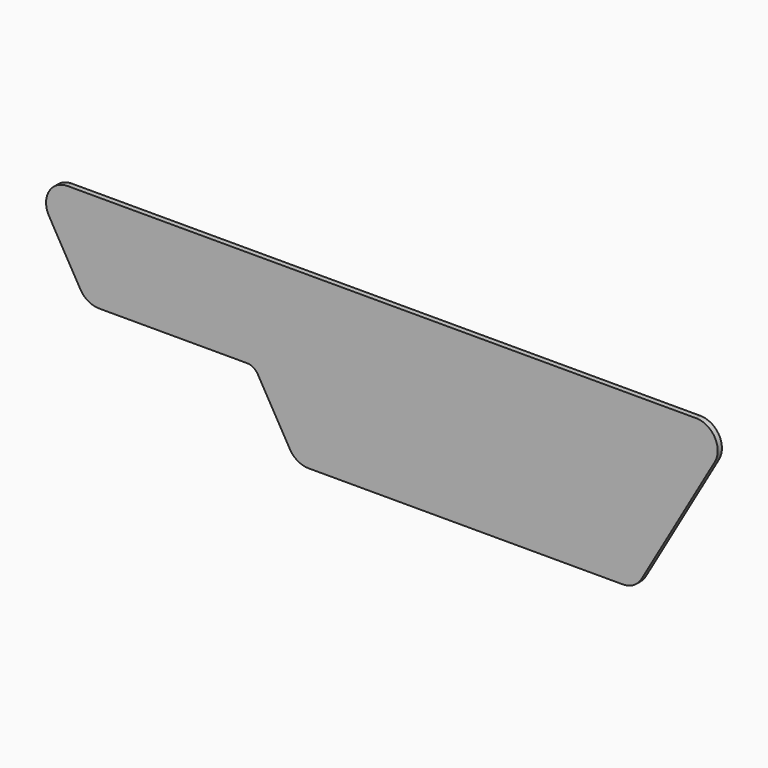
from build123d import *

# Parameters (mm, degrees)
F0_R      = 9.4
F1_DEPTH  = 3
F2_R      = 20
F4_DEPTH  = 2
F6_DEPTH  = 2
F8_DEPTH  = 2
F10_DEPTH = 2
F12_DEPTH = 2
F15_DEPTH = 5


with BuildPart() as f1:
    # F0 (on Front) → F1 (new body)
    with BuildSketch(Plane.XZ):
        with BuildLine():
            ThreePointArc((9.679841755, -7.7498815216), (16.4685048716, -10.4231120583), (19.3, -17.1473029949))
            ThreePointArc((19.3, -17.1473029949), (7.3609322648, -26.1978905469), (1.8716733966, -12.2579296252))
            ThreePointArc((1.8716733966, -12.2579296252), (-5.3694259066, -11.1771760939), (-10.7387150069, -6.2))
            Line((-10.7387150069, -6.2), (18.9612849931, -57.6419089848))
            ThreePointArc((18.9612849931, -57.6419089848), (17.3355686068, -50.5033801767), (20.020158245, -43.6920274632))
            ThreePointArc((20.020158245, -43.6920274632), (13.0758090634, -27.7261011183), (29.2, -34.2946059899))
            ThreePointArc((29.2, -34.2946059899), (28.850587552, -36.833673725), (27.8283266034, -39.1839793596))
            ThreePointArc((27.8283266034, -39.1839793596), (29.7, -39.0419089848), (31.5716733966, -39.1839793596))
            ThreePointArc((31.5716733966, -39.1839793596), (37.0609322648, -25.2440184379), (49, -34.2946059899))
            ThreePointArc((49, -34.2946059899), (46.1685048716, -41.0187969265), (39.379841755, -43.6920274632))
            ThreePointArc((39.379841755, -43.6920274632), (40.4387150069, -45.2419089848), (41.2515151515, -46.9338608812))
            ThreePointArc((41.2515151515, -46.9338608812), (51.8263966154, -42.334336378), (58.9, -51.4419089848))
            ThreePointArc((58.9, -51.4419089848), (51.8263966154, -60.5494815916), (41.2515151515, -55.9499570884))
            ThreePointArc((41.2515151515, -55.9499570884), (36.6950054866, -61.6805562706), (29.7, -63.8419089848))
            Line((29.7, -63.8419089848), (168.3, -63.8419089848))
            ThreePointArc((168.3, -63.8419089848), (161.3049945134, -61.6805562706), (156.7484848485, -55.9499570884))
            ThreePointArc((156.7484848485, -55.9499570884), (139.1, -51.4419089848), (156.7484848485, -46.9338608812))
            ThreePointArc((156.7484848485, -46.9338608812), (157.5612849931, -45.2419089848), (158.620158245, -43.6920274632))
            ThreePointArc((158.620158245, -43.6920274632), (151.6758090634, -27.7261011183), (167.8, -34.2946059899))
            ThreePointArc((167.8, -34.2946059899), (167.450587552, -36.833673725), (166.4283266034, -39.1839793596))
            ThreePointArc((166.4283266034, -39.1839793596), (168.3, -39.0419089848), (170.1716733966, -39.1839793596))
            ThreePointArc((170.1716733966, -39.1839793596), (175.6609322648, -25.2440184379), (187.6, -34.2946059899))
            ThreePointArc((187.6, -34.2946059899), (184.7685048716, -41.0187969265), (177.979841755, -43.6920274632))
            ThreePointArc((177.979841755, -43.6920274632), (179.0387150069, -45.2419089848), (179.8515151515, -46.9338608812))
            ThreePointArc((179.8515151515, -46.9338608812), (190.4263966154, -42.334336378), (197.5, -51.4419089848))
            ThreePointArc((197.5, -51.4419089848), (197.150587552, -53.98097672), (196.1283266034, -56.3312823545))
            ThreePointArc((196.1283266034, -56.3312823545), (198, -56.1892119797), (199.8716733966, -56.3312823545))
            ThreePointArc((199.8716733966, -56.3312823545), (205.3609322648, -42.3913214328), (217.3, -51.4419089848))
            ThreePointArc((217.3, -51.4419089848), (214.4685048716, -58.1660999214), (207.679841755, -60.8393304581))
            ThreePointArc((207.679841755, -60.8393304581), (208.7387150069, -62.3892119797), (209.5515151515, -64.0811638761))
            ThreePointArc((209.5515151515, -64.0811638761), (220.1263966154, -59.4816393729), (227.2, -68.5892119797))
            ThreePointArc((227.2, -68.5892119797), (220.1263966154, -77.6967845865), (209.5515151515, -73.0972600833))
            ThreePointArc((209.5515151515, -73.0972600833), (208.7387150069, -74.7892119797), (207.679841755, -76.3390935013))
            ThreePointArc((207.679841755, -76.3390935013), (214.4685048716, -79.0123240381), (217.3, -85.7365149747))
            ThreePointArc((217.3, -85.7365149747), (205.3609322648, -94.7871025266), (199.8716733966, -80.8471416049))
            ThreePointArc((199.8716733966, -80.8471416049), (192.6305740934, -79.7663880736), (187.2612849931, -74.7892119797))
            Line((187.2612849931, -74.7892119797), (216.9612849931, -126.2311209645))
            ThreePointArc((216.9612849931, -126.2311209645), (215.3355686068, -119.0925921564), (218.020158245, -112.2812394429))
            ThreePointArc((218.020158245, -112.2812394429), (211.0758090634, -96.315313098), (227.2, -102.8838179696))
            ThreePointArc((227.2, -102.8838179696), (226.850587552, -105.4228857048), (225.8283266034, -107.7731913393))
            ThreePointArc((225.8283266034, -107.7731913393), (227.7, -107.6311209645), (229.5716733966, -107.7731913393))
            ThreePointArc((229.5716733966, -107.7731913393), (235.0609322648, -93.8332304176), (247, -102.8838179696))
            ThreePointArc((247, -102.8838179696), (244.1685048716, -109.6080089062), (237.379841755, -112.2812394429))
            ThreePointArc((237.379841755, -112.2812394429), (238.4387150069, -113.8311209645), (239.2515151515, -115.5230728609))
            ThreePointArc((239.2515151515, -115.5230728609), (249.8263966154, -110.9235483577), (256.9, -120.0311209645))
            ThreePointArc((256.9, -120.0311209645), (249.8263966154, -129.1386935713), (239.2515151515, -124.5391690681))
            ThreePointArc((239.2515151515, -124.5391690681), (234.6950054866, -130.2697682503), (227.7, -132.4311209645))
            Line((227.7, -132.4311209645), (524.7, -132.4311209645))
            ThreePointArc((524.7, -132.4311209645), (517.7049945134, -130.2697682503), (513.1484848485, -124.5391690681))
            ThreePointArc((513.1484848485, -124.5391690681), (495.5, -120.0311209645), (513.1484848485, -115.5230728609))
            ThreePointArc((513.1484848485, -115.5230728609), (513.9612849931, -113.8311209645), (515.020158245, -112.2812394429))
            ThreePointArc((515.020158245, -112.2812394429), (508.0758090634, -96.315313098), (524.2, -102.8838179696))
            ThreePointArc((524.2, -102.8838179696), (523.850587552, -105.4228857048), (522.8283266034, -107.7731913393))
            ThreePointArc((522.8283266034, -107.7731913393), (530.0694259066, -108.8539448706), (535.4387150069, -113.8311209645))
            Line((535.4387150069, -113.8311209645), (466.1387150069, 6.2))
            ThreePointArc((466.1387150069, 6.2), (467.377480246, 3.2093561593), (467.8, 0))
            ThreePointArc((467.8, 0), (467.1002144801, -4.1066995409), (465.079841755, -7.7498815216))
            ThreePointArc((465.079841755, -7.7498815216), (471.8685048716, -10.4231120583), (474.7, -17.1473029949))
            ThreePointArc((474.7, -17.1473029949), (462.7609322648, -26.1978905469), (457.2716733966, -12.2579296252))
            ThreePointArc((457.2716733966, -12.2579296252), (455.4, -12.4), (453.5283266034, -12.2579296252))
            ThreePointArc((453.5283266034, -12.2579296252), (454.550587552, -14.6082352597), (454.9, -17.1473029949))
            ThreePointArc((454.9, -17.1473029949), (438.7758090634, -23.7158078665), (445.720158245, -7.7498815216))
            ThreePointArc((445.720158245, -7.7498815216), (444.6612849931, -6.2), (443.8484848485, -4.5080481036))
            ThreePointArc((443.8484848485, -4.5080481036), (426.2, 0), (443.8484848485, 4.5080481036))
            ThreePointArc((443.8484848485, 4.5080481036), (448.4049945134, 10.2386472858), (455.4, 12.4))
            Line((455.4, 12.4), (0, 12.4))
            ThreePointArc((0, 12.4), (6.9950054866, 10.2386472858), (11.5515151515, 4.5080481036))
            ThreePointArc((11.5515151515, 4.5080481036), (22.1263966154, 9.1075726068), (29.2, 0))
            ThreePointArc((29.2, 0), (22.1263966154, -9.1075726068), (11.5515151515, -4.5080481036))
            ThreePointArc((11.5515151515, -4.5080481036), (10.7387150069, -6.2), (9.679841755, -7.7498815216))
        make_face()
        with Locations((257.4, -102.8838179696)):
            Circle(F0_R, mode=Mode.SUBTRACT)
        with Locations((227.7, -85.7365149747)):
            Circle(F0_R, mode=Mode.SUBTRACT)
        with Locations((247.5, -85.7365149747)):
            Circle(F0_R, mode=Mode.SUBTRACT)
        with Locations((237.6, -68.5892119797)):
            Circle(F0_R, mode=Mode.SUBTRACT)
        with Locations((257.4, -68.5892119797)):
            Circle(F0_R, mode=Mode.SUBTRACT)
        with Locations((267.3, -120.0311209645)):
            Circle(F0_R, mode=Mode.SUBTRACT)
        with Locations((287.1, -120.0311209645)):
            Circle(F0_R, mode=Mode.SUBTRACT)
        with Locations((306.9, -120.0311209645)):
            Circle(F0_R, mode=Mode.SUBTRACT)
        with Locations((326.7, -120.0311209645)):
            Circle(F0_R, mode=Mode.SUBTRACT)
        with Locations((346.5, -120.0311209645)):
            Circle(F0_R, mode=Mode.SUBTRACT)
        with Locations((366.3, -120.0311209645)):
            Circle(F0_R, mode=Mode.SUBTRACT)
        with Locations((386.1, -120.0311209645)):
            Circle(F0_R, mode=Mode.SUBTRACT)
        with Locations((277.2, -102.8838179696)):
            Circle(F0_R, mode=Mode.SUBTRACT)
        with Locations((297, -102.8838179696)):
            Circle(F0_R, mode=Mode.SUBTRACT)
        with Locations((316.8, -102.8838179696)):
            Circle(F0_R, mode=Mode.SUBTRACT)
        with Locations((336.6, -102.8838179696)):
            Circle(F0_R, mode=Mode.SUBTRACT)
        with Locations((356.4, -102.8838179696)):
            Circle(F0_R, mode=Mode.SUBTRACT)
        with Locations((376.2, -102.8838179696)):
            Circle(F0_R, mode=Mode.SUBTRACT)
        with Locations((396, -102.8838179696)):
            Circle(F0_R, mode=Mode.SUBTRACT)
        with Locations((405.9, -120.0311209645)):
            Circle(F0_R, mode=Mode.SUBTRACT)
        with Locations((425.7, -120.0311209645)):
            Circle(F0_R, mode=Mode.SUBTRACT)
        with Locations((445.5, -120.0311209645)):
            Circle(F0_R, mode=Mode.SUBTRACT)
        with Locations((465.3, -120.0311209645)):
            Circle(F0_R, mode=Mode.SUBTRACT)
        with Locations((485.1, -120.0311209645)):
            Circle(F0_R, mode=Mode.SUBTRACT)
        with Locations((415.8, -102.8838179696)):
            Circle(F0_R, mode=Mode.SUBTRACT)
        with Locations((435.6, -102.8838179696)):
            Circle(F0_R, mode=Mode.SUBTRACT)
        with Locations((455.4, -102.8838179696)):
            Circle(F0_R, mode=Mode.SUBTRACT)
        with Locations((475.2, -102.8838179696)):
            Circle(F0_R, mode=Mode.SUBTRACT)
        with Locations((495, -102.8838179696)):
            Circle(F0_R, mode=Mode.SUBTRACT)
        with Locations((267.3, -85.7365149747)):
            Circle(F0_R, mode=Mode.SUBTRACT)
        with Locations((287.1, -85.7365149747)):
            Circle(F0_R, mode=Mode.SUBTRACT)
        with Locations((306.9, -85.7365149747)):
            Circle(F0_R, mode=Mode.SUBTRACT)
        with Locations((326.7, -85.7365149747)):
            Circle(F0_R, mode=Mode.SUBTRACT)
        with Locations((346.5, -85.7365149747)):
            Circle(F0_R, mode=Mode.SUBTRACT)
        with Locations((366.3, -85.7365149747)):
            Circle(F0_R, mode=Mode.SUBTRACT)
        with Locations((386.1, -85.7365149747)):
            Circle(F0_R, mode=Mode.SUBTRACT)
        with Locations((277.2, -68.5892119797)):
            Circle(F0_R, mode=Mode.SUBTRACT)
        with Locations((297, -68.5892119797)):
            Circle(F0_R, mode=Mode.SUBTRACT)
        with Locations((316.8, -68.5892119797)):
            Circle(F0_R, mode=Mode.SUBTRACT)
        with Locations((336.6, -68.5892119797)):
            Circle(F0_R, mode=Mode.SUBTRACT)
        with Locations((356.4, -68.5892119797)):
            Circle(F0_R, mode=Mode.SUBTRACT)
        with Locations((376.2, -68.5892119797)):
            Circle(F0_R, mode=Mode.SUBTRACT)
        with Locations((396, -68.5892119797)):
            Circle(F0_R, mode=Mode.SUBTRACT)
        with Locations((405.9, -85.7365149747)):
            Circle(F0_R, mode=Mode.SUBTRACT)
        with Locations((425.7, -85.7365149747)):
            Circle(F0_R, mode=Mode.SUBTRACT)
        with Locations((445.5, -85.7365149747)):
            Circle(F0_R, mode=Mode.SUBTRACT)
        with Locations((465.3, -85.7365149747)):
            Circle(F0_R, mode=Mode.SUBTRACT)
        with Locations((485.1, -85.7365149747)):
            Circle(F0_R, mode=Mode.SUBTRACT)
        with Locations((504.9, -85.7365149747)):
            Circle(F0_R, mode=Mode.SUBTRACT)
        with Locations((415.8, -68.5892119797)):
            Circle(F0_R, mode=Mode.SUBTRACT)
        with Locations((435.6, -68.5892119797)):
            Circle(F0_R, mode=Mode.SUBTRACT)
        with Locations((455.4, -68.5892119797)):
            Circle(F0_R, mode=Mode.SUBTRACT)
        with Locations((475.2, -68.5892119797)):
            Circle(F0_R, mode=Mode.SUBTRACT)
        with Locations((495, -68.5892119797)):
            Circle(F0_R, mode=Mode.SUBTRACT)
        with Locations((69.3, -51.4419089848)):
            Circle(F0_R, mode=Mode.SUBTRACT)
        with Locations((89.1, -51.4419089848)):
            Circle(F0_R, mode=Mode.SUBTRACT)
        with Locations((108.9, -51.4419089848)):
            Circle(F0_R, mode=Mode.SUBTRACT)
        with Locations((59.4, -34.2946059899)):
            Circle(F0_R, mode=Mode.SUBTRACT)
        with Locations((79.2, -34.2946059899)):
            Circle(F0_R, mode=Mode.SUBTRACT)
        with Locations((99, -34.2946059899)):
            Circle(F0_R, mode=Mode.SUBTRACT)
        with Locations((118.8, -34.2946059899)):
            Circle(F0_R, mode=Mode.SUBTRACT)
        with Locations((128.7, -51.4419089848)):
            Circle(F0_R, mode=Mode.SUBTRACT)
        with Locations((227.7, -51.4419089848)):
            Circle(F0_R, mode=Mode.SUBTRACT)
        with Locations((247.5, -51.4419089848)):
            Circle(F0_R, mode=Mode.SUBTRACT)
        with Locations((138.6, -34.2946059899)):
            Circle(F0_R, mode=Mode.SUBTRACT)
        with Locations((198, -34.2946059899)):
            Circle(F0_R, mode=Mode.SUBTRACT)
        with Locations((217.8, -34.2946059899)):
            Circle(F0_R, mode=Mode.SUBTRACT)
        with Locations((237.6, -34.2946059899)):
            Circle(F0_R, mode=Mode.SUBTRACT)
        with Locations((257.4, -34.2946059899)):
            Circle(F0_R, mode=Mode.SUBTRACT)
        with Locations((29.7, -17.1473029949)):
            Circle(F0_R, mode=Mode.SUBTRACT)
        with Locations((49.5, -17.1473029949)):
            Circle(F0_R, mode=Mode.SUBTRACT)
        with Locations((69.3, -17.1473029949)):
            Circle(F0_R, mode=Mode.SUBTRACT)
        with Locations((89.1, -17.1473029949)):
            Circle(F0_R, mode=Mode.SUBTRACT)
        with Locations((108.9, -17.1473029949)):
            Circle(F0_R, mode=Mode.SUBTRACT)
        with Locations((39.6, 0)):
            Circle(F0_R, mode=Mode.SUBTRACT)
        with Locations((59.4, 0)):
            Circle(F0_R, mode=Mode.SUBTRACT)
        with Locations((79.2, 0)):
            Circle(F0_R, mode=Mode.SUBTRACT)
        with Locations((99, 0)):
            Circle(F0_R, mode=Mode.SUBTRACT)
        with Locations((118.8, 0)):
            Circle(F0_R, mode=Mode.SUBTRACT)
        with Locations((128.7, -17.1473029949)):
            Circle(F0_R, mode=Mode.SUBTRACT)
        with Locations((148.5, -17.1473029949)):
            Circle(F0_R, mode=Mode.SUBTRACT)
        with Locations((168.3, -17.1473029949)):
            Circle(F0_R, mode=Mode.SUBTRACT)
        with Locations((188.1, -17.1473029949)):
            Circle(F0_R, mode=Mode.SUBTRACT)
        with Locations((207.9, -17.1473029949)):
            Circle(F0_R, mode=Mode.SUBTRACT)
        with Locations((227.7, -17.1473029949)):
            Circle(F0_R, mode=Mode.SUBTRACT)
        with Locations((247.5, -17.1473029949)):
            Circle(F0_R, mode=Mode.SUBTRACT)
        with Locations((138.6, 0)):
            Circle(F0_R, mode=Mode.SUBTRACT)
        with Locations((158.4, 0)):
            Circle(F0_R, mode=Mode.SUBTRACT)
        with Locations((178.2, 0)):
            Circle(F0_R, mode=Mode.SUBTRACT)
        with Locations((198, 0)):
            Circle(F0_R, mode=Mode.SUBTRACT)
        with Locations((217.8, 0)):
            Circle(F0_R, mode=Mode.SUBTRACT)
        with Locations((237.6, 0)):
            Circle(F0_R, mode=Mode.SUBTRACT)
        with Locations((257.4, 0)):
            Circle(F0_R, mode=Mode.SUBTRACT)
        with Locations((267.3, -51.4419089848)):
            Circle(F0_R, mode=Mode.SUBTRACT)
        with Locations((287.1, -51.4419089848)):
            Circle(F0_R, mode=Mode.SUBTRACT)
        with Locations((306.9, -51.4419089848)):
            Circle(F0_R, mode=Mode.SUBTRACT)
        with Locations((326.7, -51.4419089848)):
            Circle(F0_R, mode=Mode.SUBTRACT)
        with Locations((346.5, -51.4419089848)):
            Circle(F0_R, mode=Mode.SUBTRACT)
        with Locations((366.3, -51.4419089848)):
            Circle(F0_R, mode=Mode.SUBTRACT)
        with Locations((386.1, -51.4419089848)):
            Circle(F0_R, mode=Mode.SUBTRACT)
        with Locations((277.2, -34.2946059899)):
            Circle(F0_R, mode=Mode.SUBTRACT)
        with Locations((297, -34.2946059899)):
            Circle(F0_R, mode=Mode.SUBTRACT)
        with Locations((316.8, -34.2946059899)):
            Circle(F0_R, mode=Mode.SUBTRACT)
        with Locations((336.6, -34.2946059899)):
            Circle(F0_R, mode=Mode.SUBTRACT)
        with Locations((356.4, -34.2946059899)):
            Circle(F0_R, mode=Mode.SUBTRACT)
        with Locations((376.2, -34.2946059899)):
            Circle(F0_R, mode=Mode.SUBTRACT)
        with Locations((396, -34.2946059899)):
            Circle(F0_R, mode=Mode.SUBTRACT)
        with Locations((405.9, -51.4419089848)):
            Circle(F0_R, mode=Mode.SUBTRACT)
        with Locations((425.7, -51.4419089848)):
            Circle(F0_R, mode=Mode.SUBTRACT)
        with Locations((445.5, -51.4419089848)):
            Circle(F0_R, mode=Mode.SUBTRACT)
        with Locations((465.3, -51.4419089848)):
            Circle(F0_R, mode=Mode.SUBTRACT)
        with Locations((485.1, -51.4419089848)):
            Circle(F0_R, mode=Mode.SUBTRACT)
        with Locations((415.8, -34.2946059899)):
            Circle(F0_R, mode=Mode.SUBTRACT)
        with Locations((435.6, -34.2946059899)):
            Circle(F0_R, mode=Mode.SUBTRACT)
        with Locations((455.4, -34.2946059899)):
            Circle(F0_R, mode=Mode.SUBTRACT)
        with Locations((475.2, -34.2946059899)):
            Circle(F0_R, mode=Mode.SUBTRACT)
        with Locations((267.3, -17.1473029949)):
            Circle(F0_R, mode=Mode.SUBTRACT)
        with Locations((287.1, -17.1473029949)):
            Circle(F0_R, mode=Mode.SUBTRACT)
        with Locations((306.9, -17.1473029949)):
            Circle(F0_R, mode=Mode.SUBTRACT)
        with Locations((326.7, -17.1473029949)):
            Circle(F0_R, mode=Mode.SUBTRACT)
        with Locations((346.5, -17.1473029949)):
            Circle(F0_R, mode=Mode.SUBTRACT)
        with Locations((366.3, -17.1473029949)):
            Circle(F0_R, mode=Mode.SUBTRACT)
        with Locations((386.1, -17.1473029949)):
            Circle(F0_R, mode=Mode.SUBTRACT)
        with Locations((277.2, 0)):
            Circle(F0_R, mode=Mode.SUBTRACT)
        with Locations((297, 0)):
            Circle(F0_R, mode=Mode.SUBTRACT)
        with Locations((316.8, 0)):
            Circle(F0_R, mode=Mode.SUBTRACT)
        with Locations((336.6, 0)):
            Circle(F0_R, mode=Mode.SUBTRACT)
        with Locations((356.4, 0)):
            Circle(F0_R, mode=Mode.SUBTRACT)
        with Locations((376.2, 0)):
            Circle(F0_R, mode=Mode.SUBTRACT)
        with Locations((396, 0)):
            Circle(F0_R, mode=Mode.SUBTRACT)
        with Locations((405.9, -17.1473029949)):
            Circle(F0_R, mode=Mode.SUBTRACT)
        with Locations((425.7, -17.1473029949)):
            Circle(F0_R, mode=Mode.SUBTRACT)
        with Locations((415.8, 0)):
            Circle(F0_R, mode=Mode.SUBTRACT)
        with BuildLine():
            ThreePointArc((1.8716733966, -12.2579296252), (5.2, -9.0066641994), (9.679841755, -7.7498815216))
            ThreePointArc((9.679841755, -7.7498815216), (10.7387150069, -6.2), (11.5515151515, -4.5080481036))
            ThreePointArc((11.5515151515, -4.5080481036), (10.4, 0), (11.5515151515, 4.5080481036))
            ThreePointArc((11.5515151515, 4.5080481036), (6.9950054866, 10.2386472858), (0, 12.4))
            ThreePointArc((0, 12.4), (-10.7387150069, 6.2), (-10.7387150069, -6.2))
            ThreePointArc((-10.7387150069, -6.2), (-5.3694259066, -11.1771760939), (1.8716733966, -12.2579296252))
        make_face()
        Circle(F0_R, mode=Mode.SUBTRACT)
        with BuildLine():
            ThreePointArc((20.020158245, -43.6920274632), (17.3355686068, -50.5033801767), (18.9612849931, -57.6419089848))
            ThreePointArc((18.9612849931, -57.6419089848), (23.5, -62.1806239917), (29.7, -63.8419089848))
            ThreePointArc((29.7, -63.8419089848), (36.6950054866, -61.6805562706), (41.2515151515, -55.9499570884))
            ThreePointArc((41.2515151515, -55.9499570884), (40.1, -51.4419089848), (41.2515151515, -46.9338608812))
            ThreePointArc((41.2515151515, -46.9338608812), (40.4387150069, -45.2419089848), (39.379841755, -43.6920274632))
            ThreePointArc((39.379841755, -43.6920274632), (34.9, -42.4352447854), (31.5716733966, -39.1839793596))
            ThreePointArc((31.5716733966, -39.1839793596), (29.7, -39.0419089848), (27.8283266034, -39.1839793596))
            ThreePointArc((27.8283266034, -39.1839793596), (24.5, -42.4352447854), (20.020158245, -43.6920274632))
        make_face()
        with Locations((29.7, -51.4419089848)):
            Circle(F0_R, mode=Mode.SUBTRACT)
        with BuildLine():
            ThreePointArc((466.1387150069, 6.2), (461.6, 10.7387150069), (455.4, 12.4))
            ThreePointArc((455.4, 12.4), (448.4049945134, 10.2386472858), (443.8484848485, 4.5080481036))
            ThreePointArc((443.8484848485, 4.5080481036), (444.7075726068, 2.3263966154), (445, 0))
            ThreePointArc((445, 0), (444.7075726068, -2.3263966154), (443.8484848485, -4.5080481036))
            ThreePointArc((443.8484848485, -4.5080481036), (444.6612849931, -6.2), (445.720158245, -7.7498815216))
            ThreePointArc((445.720158245, -7.7498815216), (450.2, -9.0066641994), (453.5283266034, -12.2579296252))
            ThreePointArc((453.5283266034, -12.2579296252), (455.4, -12.4), (457.2716733966, -12.2579296252))
            ThreePointArc((457.2716733966, -12.2579296252), (460.6, -9.0066641994), (465.079841755, -7.7498815216))
            ThreePointArc((465.079841755, -7.7498815216), (467.1002144801, -4.1066995409), (467.8, 0))
            ThreePointArc((467.8, 0), (467.377480246, 3.2093561593), (466.1387150069, 6.2))
        make_face()
        with Locations((455.4, 0)):
            Circle(F0_R, mode=Mode.SUBTRACT)
        with BuildLine():
            ThreePointArc((156.7484848485, -55.9499570884), (161.3049945134, -61.6805562706), (168.3, -63.8419089848))
            ThreePointArc((168.3, -63.8419089848), (175.2950054866, -61.6805562706), (179.8515151515, -55.9499570884))
            ThreePointArc((179.8515151515, -55.9499570884), (178.7, -51.4419089848), (179.8515151515, -46.9338608812))
            ThreePointArc((179.8515151515, -46.9338608812), (179.0387150069, -45.2419089848), (177.979841755, -43.6920274632))
            ThreePointArc((177.979841755, -43.6920274632), (173.5, -42.4352447854), (170.1716733966, -39.1839793596))
            ThreePointArc((170.1716733966, -39.1839793596), (168.3, -39.0419089848), (166.4283266034, -39.1839793596))
            ThreePointArc((166.4283266034, -39.1839793596), (163.1, -42.4352447854), (158.620158245, -43.6920274632))
            ThreePointArc((158.620158245, -43.6920274632), (157.5612849931, -45.2419089848), (156.7484848485, -46.9338608812))
            ThreePointArc((156.7484848485, -46.9338608812), (157.6075726068, -49.1155123694), (157.9, -51.4419089848))
            ThreePointArc((157.9, -51.4419089848), (157.6075726068, -53.7683056002), (156.7484848485, -55.9499570884))
        make_face()
        with Locations((168.3, -51.4419089848)):
            Circle(F0_R, mode=Mode.SUBTRACT)
        with BuildLine():
            ThreePointArc((179.8515151515, -55.9499570884), (175.2950054866, -61.6805562706), (168.3, -63.8419089848))
            Line((168.3, -63.8419089848), (180.940856662, -63.8419089848))
            Line((180.940856662, -63.8419089848), (187.2612849931, -74.7892119797))
            ThreePointArc((187.2612849931, -74.7892119797), (185.6355686068, -67.6506831716), (188.320158245, -60.8393304581))
            ThreePointArc((188.320158245, -60.8393304581), (183.4, -59.5825477804), (179.8515151515, -55.9499570884))
        make_face()
        with BuildLine():
            ThreePointArc((537.1, -120.0311209645), (536.677480246, -116.8217648053), (535.4387150069, -113.8311209645))
            ThreePointArc((535.4387150069, -113.8311209645), (530.0694259066, -108.8539448706), (522.8283266034, -107.7731913393))
            ThreePointArc((522.8283266034, -107.7731913393), (519.5, -111.0244567652), (515.020158245, -112.2812394429))
            ThreePointArc((515.020158245, -112.2812394429), (513.9612849931, -113.8311209645), (513.1484848485, -115.5230728609))
            ThreePointArc((513.1484848485, -115.5230728609), (514.0075726068, -117.7047243491), (514.3, -120.0311209645))
            ThreePointArc((514.3, -120.0311209645), (514.0075726068, -122.3575175799), (513.1484848485, -124.5391690681))
            ThreePointArc((513.1484848485, -124.5391690681), (517.7049945134, -130.2697682503), (524.7, -132.4311209645))
            ThreePointArc((524.7, -132.4311209645), (533.4681240867, -128.7992450512), (537.1, -120.0311209645))
        make_face()
        with Locations((524.7, -120.0311209645)):
            Circle(F0_R, mode=Mode.SUBTRACT)
        with BuildLine():
            ThreePointArc((196.1283266034, -56.3312823545), (192.8, -59.5825477804), (188.320158245, -60.8393304581))
            ThreePointArc((188.320158245, -60.8393304581), (185.6355686068, -67.6506831716), (187.2612849931, -74.7892119797))
            ThreePointArc((187.2612849931, -74.7892119797), (192.6305740934, -79.7663880736), (199.8716733966, -80.8471416049))
            ThreePointArc((199.8716733966, -80.8471416049), (203.2, -77.5958761791), (207.679841755, -76.3390935013))
            ThreePointArc((207.679841755, -76.3390935013), (208.7387150069, -74.7892119797), (209.5515151515, -73.0972600833))
            ThreePointArc((209.5515151515, -73.0972600833), (208.4, -68.5892119797), (209.5515151515, -64.0811638761))
            ThreePointArc((209.5515151515, -64.0811638761), (208.7387150069, -62.3892119797), (207.679841755, -60.8393304581))
            ThreePointArc((207.679841755, -60.8393304581), (203.2, -59.5825477804), (199.8716733966, -56.3312823545))
            ThreePointArc((199.8716733966, -56.3312823545), (198, -56.1892119797), (196.1283266034, -56.3312823545))
        make_face()
        with Locations((198, -68.5892119797)):
            Circle(F0_R, mode=Mode.SUBTRACT)
        with BuildLine():
            ThreePointArc((218.020158245, -112.2812394429), (215.3355686068, -119.0925921564), (216.9612849931, -126.2311209645))
            ThreePointArc((216.9612849931, -126.2311209645), (221.5, -130.7698359715), (227.7, -132.4311209645))
            ThreePointArc((227.7, -132.4311209645), (234.6950054866, -130.2697682503), (239.2515151515, -124.5391690681))
            ThreePointArc((239.2515151515, -124.5391690681), (238.1, -120.0311209645), (239.2515151515, -115.5230728609))
            ThreePointArc((239.2515151515, -115.5230728609), (238.4387150069, -113.8311209645), (237.379841755, -112.2812394429))
            ThreePointArc((237.379841755, -112.2812394429), (232.9, -111.0244567652), (229.5716733966, -107.7731913393))
            ThreePointArc((229.5716733966, -107.7731913393), (227.7, -107.6311209645), (225.8283266034, -107.7731913393))
            ThreePointArc((225.8283266034, -107.7731913393), (222.5, -111.0244567652), (218.020158245, -112.2812394429))
        make_face()
        with Locations((227.7, -120.0311209645)):
            Circle(F0_R, mode=Mode.SUBTRACT)
    extrude(amount=F1_DEPTH)

    # F2
    f2_edges = [f1.edges().sort_by_distance(p)[0] for p in [
        (180.940857, -1.5, -63.841909),
    ]]
    fillet(f2_edges, radius=F2_R)

    # F14 (on face) → F15 (join)
    with BuildSketch(Plane.XZ.offset(3)):
        with BuildLine():
            ThreePointArc((210.0330817628, -130.2311209645), (217.5, -137.6980392017), (227.7, -140.4311209645))
            Line((227.7, -140.4311209645), (524.7, -140.4311209645))
            ThreePointArc((524.7, -140.4311209645), (534.9, -137.6980392017), (542.3669182372, -130.2311209645))
            Line((542.3669182372, -130.2311209645), (611.6669182372, -10.2))
            ThreePointArc((611.6669182372, -10.2), (611.6669182372, 10.2), (594, 20.4))
            Line((594, 20.4), (455.4, 20.4))
            Line((455.4, 20.4), (0, 20.4))
            ThreePointArc((0, 20.4), (-17.6669182372, 10.2), (-17.6669182372, -10.2))
            Line((-17.6669182372, -10.2), (12.0330817628, -61.6419089848))
            ThreePointArc((12.0330817628, -61.6419089848), (19.5, -69.108827222), (29.7, -71.8419089848))
            Line((29.7, -71.8419089848), (169.3938512783, -71.8419089848))
            ThreePointArc((169.3938512783, -71.8419089848), (175.3938512783, -73.4496041394), (179.7861561237, -77.8419089848))
            Line((179.7861561237, -77.8419089848), (210.0330817628, -130.2311209645))
        make_face()
    extrude(amount=F15_DEPTH)


with BuildPart() as f4:
    # F3 (on face) → F4 (new body)
    with BuildSketch(Plane.XZ.offset(3)):
        with BuildLine():
            ThreePointArc((466.1387150069, 6.2), (461.6, 10.7387150069), (455.4, 12.4))
            Line((455.4, 12.4), (0, 12.4))
            ThreePointArc((0, 12.4), (-10.7387150069, 6.2), (-10.7387150069, -6.2))
            Line((-10.7387150069, -6.2), (18.9612849931, -57.6419089848))
            ThreePointArc((18.9612849931, -57.6419089848), (23.5, -62.1806239917), (29.7, -63.8419089848))
            Line((29.7, -63.8419089848), (169.3938512783, -63.8419089848))
            ThreePointArc((169.3938512783, -63.8419089848), (179.3938512783, -66.5214009091), (186.7143593539, -73.8419089848))
            Line((186.7143593539, -73.8419089848), (216.9612849931, -126.2311209645))
            ThreePointArc((216.9612849931, -126.2311209645), (221.5, -130.7698359715), (227.7, -132.4311209645))
            Line((227.7, -132.4311209645), (524.7, -132.4311209645))
            ThreePointArc((524.7, -132.4311209645), (535.4387150069, -126.2311209645), (535.4387150069, -113.8311209645))
            Line((535.4387150069, -113.8311209645), (466.1387150069, 6.2))
        make_face()
    extrude(amount=F4_DEPTH)

    # F5 (on face) → F6 (cut, through all)
    with BuildSketch(Plane.XZ.offset(3)):
        with BuildLine():
            Line((0, 4), (-8.5064681273, 4))
            ThreePointArc((-8.5064681273, 4), (-9.4, 0), (-8.5064681273, -4))
            Line((-8.5064681273, -4), (0, -4))
            Line((0, -4), (463.9064681273, -4))
            ThreePointArc((463.9064681273, -4), (464.8, 0), (463.9064681273, 4))
            Line((463.9064681273, 4), (0, 4))
        make_face()
        with BuildLine():
            Line((29.7, -47.4419089848), (21.1935318727, -47.4419089848))
            ThreePointArc((21.1935318727, -47.4419089848), (20.3, -51.4419089848), (21.1935318727, -55.4419089848))
            Line((21.1935318727, -55.4419089848), (29.7, -55.4419089848))
            Line((29.7, -55.4419089848), (493.6064681273, -55.4419089848))
            ThreePointArc((493.6064681273, -55.4419089848), (494.5, -51.4419089848), (493.6064681273, -47.4419089848))
            Line((493.6064681273, -47.4419089848), (29.7, -47.4419089848))
        make_face()
        with BuildLine():
            Line((9.9, -13.1473029949), (1.3935318727, -13.1473029949))
            ThreePointArc((1.3935318727, -13.1473029949), (0.5, -17.1473029949), (1.3935318727, -21.1473029949))
            Line((1.3935318727, -21.1473029949), (9.9, -21.1473029949))
            Line((9.9, -21.1473029949), (473.8064681273, -21.1473029949))
            ThreePointArc((473.8064681273, -21.1473029949), (474.7, -17.1473029949), (473.8064681273, -13.1473029949))
            Line((473.8064681273, -13.1473029949), (9.9, -13.1473029949))
        make_face()
        with BuildLine():
            Line((19.8, -30.2946059899), (11.2935318727, -30.2946059899))
            ThreePointArc((11.2935318727, -30.2946059899), (10.4, -34.2946059899), (11.2935318727, -38.2946059899))
            Line((11.2935318727, -38.2946059899), (19.8, -38.2946059899))
            Line((19.8, -38.2946059899), (483.7064681273, -38.2946059899))
            ThreePointArc((483.7064681273, -38.2946059899), (484.6, -34.2946059899), (483.7064681273, -30.2946059899))
            Line((483.7064681273, -30.2946059899), (19.8, -30.2946059899))
        make_face()
    extrude(amount=F6_DEPTH, mode=Mode.SUBTRACT)

    # F7 (on face) → F8 (cut, through all)
    with BuildSketch(Plane.XZ.offset(3)):
        with BuildLine():
            Line((198, -64.5892119797), (189.4935318727, -64.5892119797))
            ThreePointArc((189.4935318727, -64.5892119797), (188.6, -68.5892119797), (189.4935318727, -72.5892119797))
            Line((189.4935318727, -72.5892119797), (198, -72.5892119797))
            Line((198, -72.5892119797), (495, -72.5892119797))
            Line((495, -72.5892119797), (503.5064681273, -72.5892119797))
            ThreePointArc((503.5064681273, -72.5892119797), (504.4, -68.5892119797), (503.5064681273, -64.5892119797))
            Line((503.5064681273, -64.5892119797), (495, -64.5892119797))
            Line((495, -64.5892119797), (198, -64.5892119797))
        make_face()
        with BuildLine():
            Line((227.7, -116.0311209645), (219.1935318727, -116.0311209645))
            ThreePointArc((219.1935318727, -116.0311209645), (218.3, -120.0311209645), (219.1935318727, -124.0311209645))
            Line((219.1935318727, -124.0311209645), (227.7, -124.0311209645))
            Line((227.7, -124.0311209645), (524.7, -124.0311209645))
            Line((524.7, -124.0311209645), (533.2064681273, -124.0311209645))
            ThreePointArc((533.2064681273, -124.0311209645), (534.1, -120.0311209645), (533.2064681273, -116.0311209645))
            Line((533.2064681273, -116.0311209645), (524.7, -116.0311209645))
            Line((524.7, -116.0311209645), (227.7, -116.0311209645))
        make_face()
        with BuildLine():
            Line((207.9, -81.7365149747), (199.3935318727, -81.7365149747))
            ThreePointArc((199.3935318727, -81.7365149747), (198.5, -85.7365149747), (199.3935318727, -89.7365149747))
            Line((199.3935318727, -89.7365149747), (207.9, -89.7365149747))
            Line((207.9, -89.7365149747), (504.9, -89.7365149747))
            Line((504.9, -89.7365149747), (513.4064681273, -89.7365149747))
            ThreePointArc((513.4064681273, -89.7365149747), (514.3, -85.7365149747), (513.4064681273, -81.7365149747))
            Line((513.4064681273, -81.7365149747), (504.9, -81.7365149747))
            Line((504.9, -81.7365149747), (207.9, -81.7365149747))
        make_face()
        with BuildLine():
            Line((217.8, -98.8838179696), (209.2935318727, -98.8838179696))
            ThreePointArc((209.2935318727, -98.8838179696), (208.4, -102.8838179696), (209.2935318727, -106.8838179696))
            Line((209.2935318727, -106.8838179696), (217.8, -106.8838179696))
            Line((217.8, -106.8838179696), (514.8, -106.8838179696))
            Line((514.8, -106.8838179696), (523.3064681273, -106.8838179696))
            ThreePointArc((523.3064681273, -106.8838179696), (524.2, -102.8838179696), (523.3064681273, -98.8838179696))
            Line((523.3064681273, -98.8838179696), (514.8, -98.8838179696))
            Line((514.8, -98.8838179696), (217.8, -98.8838179696))
        make_face()
    extrude(amount=F8_DEPTH, mode=Mode.SUBTRACT)

    # F9 (on face) → F10 (cut, through all)
    with BuildSketch(Plane.XZ.offset(3)):
        with BuildLine():
            Line((3.4641016151, 2), (-0.7891324485, 9.3668174947))
            ThreePointArc((-0.7891324485, 9.3668174947), (-4.7, 8.1406387956), (-7.7173356788, 5.3668174947))
            Line((-7.7173356788, 5.3668174947), (-3.4641016151, -2))
            Line((-3.4641016151, -2), (26.2358983849, -53.4419089848))
            Line((26.2358983849, -53.4419089848), (30.4891324485, -60.8087264795))
            ThreePointArc((30.4891324485, -60.8087264795), (34.4, -59.5825477804), (37.4173356788, -56.8087264795))
            Line((37.4173356788, -56.8087264795), (33.1641016151, -49.4419089848))
            Line((33.1641016151, -49.4419089848), (3.4641016151, 2))
        make_face()
        with BuildLine():
            Line((23.2641016151, 2), (19.0108675515, 9.3668174947))
            ThreePointArc((19.0108675515, 9.3668174947), (15.1, 8.1406387956), (12.0826643212, 5.3668174947))
            Line((12.0826643212, 5.3668174947), (16.3358983849, -2))
            Line((16.3358983849, -2), (46.0358983849, -53.4419089848))
            Line((46.0358983849, -53.4419089848), (50.2891324485, -60.8087264795))
            ThreePointArc((50.2891324485, -60.8087264795), (54.2, -59.5825477804), (57.2173356788, -56.8087264795))
            Line((57.2173356788, -56.8087264795), (52.9641016151, -49.4419089848))
            Line((52.9641016151, -49.4419089848), (23.2641016151, 2))
        make_face()
        with BuildLine():
            Line((43.0641016151, 2), (38.8108675515, 9.3668174947))
            ThreePointArc((38.8108675515, 9.3668174947), (34.9, 8.1406387956), (31.8826643212, 5.3668174947))
            Line((31.8826643212, 5.3668174947), (36.1358983849, -2))
            Line((36.1358983849, -2), (65.8358983849, -53.4419089848))
            Line((65.8358983849, -53.4419089848), (70.0891324485, -60.8087264795))
            ThreePointArc((70.0891324485, -60.8087264795), (74, -59.5825477804), (77.0173356788, -56.8087264795))
            Line((77.0173356788, -56.8087264795), (72.7641016151, -49.4419089848))
            Line((72.7641016151, -49.4419089848), (43.0641016151, 2))
        make_face()
        with BuildLine():
            Line((62.8641016151, 2), (58.6108675515, 9.3668174947))
            ThreePointArc((58.6108675515, 9.3668174947), (54.7, 8.1406387956), (51.6826643212, 5.3668174947))
            Line((51.6826643212, 5.3668174947), (55.9358983849, -2))
            Line((55.9358983849, -2), (85.6358983849, -53.4419089848))
            Line((85.6358983849, -53.4419089848), (89.8891324485, -60.8087264795))
            ThreePointArc((89.8891324485, -60.8087264795), (93.8, -59.5825477804), (96.8173356788, -56.8087264795))
            Line((96.8173356788, -56.8087264795), (92.5641016151, -49.4419089848))
            Line((92.5641016151, -49.4419089848), (62.8641016151, 2))
        make_face()
        with BuildLine():
            Line((82.6641016151, 2), (78.4108675515, 9.3668174947))
            ThreePointArc((78.4108675515, 9.3668174947), (74.5, 8.1406387956), (71.4826643212, 5.3668174947))
            Line((71.4826643212, 5.3668174947), (75.7358983849, -2))
            Line((75.7358983849, -2), (105.4358983849, -53.4419089848))
            Line((105.4358983849, -53.4419089848), (109.6891324485, -60.8087264795))
            ThreePointArc((109.6891324485, -60.8087264795), (113.6, -59.5825477804), (116.6173356788, -56.8087264795))
            Line((116.6173356788, -56.8087264795), (112.3641016151, -49.4419089848))
            Line((112.3641016151, -49.4419089848), (82.6641016151, 2))
        make_face()
        with BuildLine():
            Line((102.4641016151, 2), (98.2108675515, 9.3668174947))
            ThreePointArc((98.2108675515, 9.3668174947), (94.3, 8.1406387956), (91.2826643212, 5.3668174947))
            Line((91.2826643212, 5.3668174947), (95.5358983849, -2))
            Line((95.5358983849, -2), (125.2358983849, -53.4419089848))
            Line((125.2358983849, -53.4419089848), (129.4891324485, -60.8087264795))
            ThreePointArc((129.4891324485, -60.8087264795), (133.4, -59.5825477804), (136.4173356788, -56.8087264795))
            Line((136.4173356788, -56.8087264795), (132.1641016151, -49.4419089848))
            Line((132.1641016151, -49.4419089848), (102.4641016151, 2))
        make_face()
        with BuildLine():
            Line((122.2641016151, 2), (118.0108675515, 9.3668174947))
            ThreePointArc((118.0108675515, 9.3668174947), (114.1, 8.1406387956), (111.0826643212, 5.3668174947))
            Line((111.0826643212, 5.3668174947), (115.3358983849, -2))
            Line((115.3358983849, -2), (145.0358983849, -53.4419089848))
            Line((145.0358983849, -53.4419089848), (149.2891324485, -60.8087264795))
            ThreePointArc((149.2891324485, -60.8087264795), (153.2, -59.5825477804), (156.2173356788, -56.8087264795))
            Line((156.2173356788, -56.8087264795), (151.9641016151, -49.4419089848))
            Line((151.9641016151, -49.4419089848), (122.2641016151, 2))
        make_face()
        with BuildLine():
            Line((142.0641016151, 2), (137.8108675515, 9.3668174947))
            ThreePointArc((137.8108675515, 9.3668174947), (133.9, 8.1406387956), (130.8826643212, 5.3668174947))
            Line((130.8826643212, 5.3668174947), (135.1358983849, -2))
            Line((135.1358983849, -2), (164.8358983849, -53.4419089848))
            Line((164.8358983849, -53.4419089848), (169.0891324485, -60.8087264795))
            ThreePointArc((169.0891324485, -60.8087264795), (173, -59.5825477804), (176.0173356788, -56.8087264795))
            Line((176.0173356788, -56.8087264795), (171.7641016151, -49.4419089848))
            Line((171.7641016151, -49.4419089848), (142.0641016151, 2))
        make_face()
    extrude(amount=F10_DEPTH, mode=Mode.SUBTRACT)

    # F11 (on face) → F12 (cut, through all)
    with BuildSketch(Plane.XZ.offset(3)):
        with BuildLine():
            Line((161.8641016151, 2), (157.6108675515, 9.3668174947))
            ThreePointArc((157.6108675515, 9.3668174947), (153.7, 8.1406387956), (150.6826643212, 5.3668174947))
            Line((150.6826643212, 5.3668174947), (154.9358983849, -2))
            Line((154.9358983849, -2), (224.2358983849, -122.0311209645))
            Line((224.2358983849, -122.0311209645), (228.4891324485, -129.3979384592))
            ThreePointArc((228.4891324485, -129.3979384592), (232.4, -128.1717597601), (235.4173356788, -125.3979384592))
            Line((235.4173356788, -125.3979384592), (231.1641016151, -118.0311209645))
            Line((231.1641016151, -118.0311209645), (161.8641016151, 2))
        make_face()
        with BuildLine():
            Line((181.6641016151, 2), (177.4108675515, 9.3668174947))
            ThreePointArc((177.4108675515, 9.3668174947), (173.5, 8.1406387956), (170.4826643212, 5.3668174947))
            Line((170.4826643212, 5.3668174947), (174.7358983849, -2))
            Line((174.7358983849, -2), (244.0358983849, -122.0311209645))
            Line((244.0358983849, -122.0311209645), (248.2891324485, -129.3979384592))
            ThreePointArc((248.2891324485, -129.3979384592), (252.2, -128.1717597601), (255.2173356788, -125.3979384592))
            Line((255.2173356788, -125.3979384592), (250.9641016151, -118.0311209645))
            Line((250.9641016151, -118.0311209645), (181.6641016151, 2))
        make_face()
        with BuildLine():
            Line((201.4641016151, 2), (197.2108675515, 9.3668174947))
            ThreePointArc((197.2108675515, 9.3668174947), (193.3, 8.1406387956), (190.2826643212, 5.3668174947))
            Line((190.2826643212, 5.3668174947), (194.5358983849, -2))
            Line((194.5358983849, -2), (263.8358983849, -122.0311209645))
            Line((263.8358983849, -122.0311209645), (268.0891324485, -129.3979384592))
            ThreePointArc((268.0891324485, -129.3979384592), (272, -128.1717597601), (275.0173356788, -125.3979384592))
            Line((275.0173356788, -125.3979384592), (270.7641016151, -118.0311209645))
            Line((270.7641016151, -118.0311209645), (201.4641016151, 2))
        make_face()
        with BuildLine():
            Line((221.2641016151, 2), (217.0108675515, 9.3668174947))
            ThreePointArc((217.0108675515, 9.3668174947), (213.1, 8.1406387956), (210.0826643212, 5.3668174947))
            Line((210.0826643212, 5.3668174947), (214.3358983849, -2))
            Line((214.3358983849, -2), (283.6358983849, -122.0311209645))
            Line((283.6358983849, -122.0311209645), (287.8891324485, -129.3979384592))
            ThreePointArc((287.8891324485, -129.3979384592), (291.8, -128.1717597601), (294.8173356788, -125.3979384592))
            Line((294.8173356788, -125.3979384592), (290.5641016151, -118.0311209645))
            Line((290.5641016151, -118.0311209645), (221.2641016151, 2))
        make_face()
        with BuildLine():
            Line((241.0641016151, 2), (236.8108675515, 9.3668174947))
            ThreePointArc((236.8108675515, 9.3668174947), (232.9, 8.1406387956), (229.8826643212, 5.3668174947))
            Line((229.8826643212, 5.3668174947), (234.1358983849, -2))
            Line((234.1358983849, -2), (303.4358983849, -122.0311209645))
            Line((303.4358983849, -122.0311209645), (307.6891324485, -129.3979384592))
            ThreePointArc((307.6891324485, -129.3979384592), (311.6, -128.1717597601), (314.6173356788, -125.3979384592))
            Line((314.6173356788, -125.3979384592), (310.3641016151, -118.0311209645))
            Line((310.3641016151, -118.0311209645), (241.0641016151, 2))
        make_face()
        with BuildLine():
            Line((260.8641016151, 2), (256.6108675515, 9.3668174947))
            ThreePointArc((256.6108675515, 9.3668174947), (252.7, 8.1406387956), (249.6826643212, 5.3668174947))
            Line((249.6826643212, 5.3668174947), (253.9358983849, -2))
            Line((253.9358983849, -2), (323.2358983849, -122.0311209645))
            Line((323.2358983849, -122.0311209645), (327.4891324485, -129.3979384592))
            ThreePointArc((327.4891324485, -129.3979384592), (331.4, -128.1717597601), (334.4173356788, -125.3979384592))
            Line((334.4173356788, -125.3979384592), (330.1641016151, -118.0311209645))
            Line((330.1641016151, -118.0311209645), (260.8641016151, 2))
        make_face()
        with BuildLine():
            Line((280.6641016151, 2), (276.4108675515, 9.3668174947))
            ThreePointArc((276.4108675515, 9.3668174947), (272.5, 8.1406387956), (269.4826643212, 5.3668174947))
            Line((269.4826643212, 5.3668174947), (273.7358983849, -2))
            Line((273.7358983849, -2), (343.0358983849, -122.0311209645))
            Line((343.0358983849, -122.0311209645), (347.2891324485, -129.3979384592))
            ThreePointArc((347.2891324485, -129.3979384592), (351.2, -128.1717597601), (354.2173356788, -125.3979384592))
            Line((354.2173356788, -125.3979384592), (349.9641016151, -118.0311209645))
            Line((349.9641016151, -118.0311209645), (280.6641016151, 2))
        make_face()
        with BuildLine():
            Line((300.4641016151, 2), (296.2108675515, 9.3668174947))
            ThreePointArc((296.2108675515, 9.3668174947), (292.3, 8.1406387956), (289.2826643212, 5.3668174947))
            Line((289.2826643212, 5.3668174947), (293.5358983849, -2))
            Line((293.5358983849, -2), (362.8358983849, -122.0311209645))
            Line((362.8358983849, -122.0311209645), (367.0891324485, -129.3979384592))
            ThreePointArc((367.0891324485, -129.3979384592), (371, -128.1717597601), (374.0173356788, -125.3979384592))
            Line((374.0173356788, -125.3979384592), (369.7641016151, -118.0311209645))
            Line((369.7641016151, -118.0311209645), (300.4641016151, 2))
        make_face()
        with BuildLine():
            Line((320.2641016151, 2), (316.0108675515, 9.3668174947))
            ThreePointArc((316.0108675515, 9.3668174947), (312.1, 8.1406387956), (309.0826643212, 5.3668174947))
            Line((309.0826643212, 5.3668174947), (313.3358983849, -2))
            Line((313.3358983849, -2), (382.6358983849, -122.0311209645))
            Line((382.6358983849, -122.0311209645), (386.8891324485, -129.3979384592))
            ThreePointArc((386.8891324485, -129.3979384592), (390.8, -128.1717597601), (393.8173356788, -125.3979384592))
            Line((393.8173356788, -125.3979384592), (389.5641016151, -118.0311209645))
            Line((389.5641016151, -118.0311209645), (320.2641016151, 2))
        make_face()
        with BuildLine():
            Line((340.0641016151, 2), (335.8108675515, 9.3668174947))
            ThreePointArc((335.8108675515, 9.3668174947), (331.9, 8.1406387956), (328.8826643212, 5.3668174947))
            Line((328.8826643212, 5.3668174947), (333.1358983849, -2))
            Line((333.1358983849, -2), (402.4358983849, -122.0311209645))
            Line((402.4358983849, -122.0311209645), (406.6891324485, -129.3979384592))
            ThreePointArc((406.6891324485, -129.3979384592), (410.6, -128.1717597601), (413.6173356788, -125.3979384592))
            Line((413.6173356788, -125.3979384592), (409.3641016151, -118.0311209645))
            Line((409.3641016151, -118.0311209645), (340.0641016151, 2))
        make_face()
        with BuildLine():
            Line((359.8641016151, 2), (355.6108675515, 9.3668174947))
            ThreePointArc((355.6108675515, 9.3668174947), (351.7, 8.1406387956), (348.6826643212, 5.3668174947))
            Line((348.6826643212, 5.3668174947), (352.9358983849, -2))
            Line((352.9358983849, -2), (422.2358983849, -122.0311209645))
            Line((422.2358983849, -122.0311209645), (426.4891324485, -129.3979384592))
            ThreePointArc((426.4891324485, -129.3979384592), (430.4, -128.1717597601), (433.4173356788, -125.3979384592))
            Line((433.4173356788, -125.3979384592), (429.1641016151, -118.0311209645))
            Line((429.1641016151, -118.0311209645), (359.8641016151, 2))
        make_face()
        with BuildLine():
            Line((379.6641016151, 2), (375.4108675515, 9.3668174947))
            ThreePointArc((375.4108675515, 9.3668174947), (371.5, 8.1406387956), (368.4826643212, 5.3668174947))
            Line((368.4826643212, 5.3668174947), (372.7358983849, -2))
            Line((372.7358983849, -2), (442.0358983849, -122.0311209645))
            Line((442.0358983849, -122.0311209645), (446.2891324485, -129.3979384592))
            ThreePointArc((446.2891324485, -129.3979384592), (450.2, -128.1717597601), (453.2173356788, -125.3979384592))
            Line((453.2173356788, -125.3979384592), (448.9641016151, -118.0311209645))
            Line((448.9641016151, -118.0311209645), (379.6641016151, 2))
        make_face()
        with BuildLine():
            Line((399.4641016151, 2), (395.2108675515, 9.3668174947))
            ThreePointArc((395.2108675515, 9.3668174947), (391.3, 8.1406387956), (388.2826643212, 5.3668174947))
            Line((388.2826643212, 5.3668174947), (392.5358983849, -2))
            Line((392.5358983849, -2), (461.8358983849, -122.0311209645))
            Line((461.8358983849, -122.0311209645), (466.0891324485, -129.3979384592))
            ThreePointArc((466.0891324485, -129.3979384592), (470, -128.1717597601), (473.0173356788, -125.3979384592))
            Line((473.0173356788, -125.3979384592), (468.7641016151, -118.0311209645))
            Line((468.7641016151, -118.0311209645), (399.4641016151, 2))
        make_face()
        with BuildLine():
            Line((419.2641016151, 2), (415.0108675515, 9.3668174947))
            ThreePointArc((415.0108675515, 9.3668174947), (411.1, 8.1406387956), (408.0826643212, 5.3668174947))
            Line((408.0826643212, 5.3668174947), (412.3358983849, -2))
            Line((412.3358983849, -2), (481.6358983849, -122.0311209645))
            Line((481.6358983849, -122.0311209645), (485.8891324485, -129.3979384592))
            ThreePointArc((485.8891324485, -129.3979384592), (489.8, -128.1717597601), (492.8173356788, -125.3979384592))
            Line((492.8173356788, -125.3979384592), (488.5641016151, -118.0311209645))
            Line((488.5641016151, -118.0311209645), (419.2641016151, 2))
        make_face()
        with BuildLine():
            Line((439.0641016151, 2), (434.8108675515, 9.3668174947))
            ThreePointArc((434.8108675515, 9.3668174947), (430.9, 8.1406387956), (427.8826643212, 5.3668174947))
            Line((427.8826643212, 5.3668174947), (432.1358983849, -2))
            Line((432.1358983849, -2), (501.4358983849, -122.0311209645))
            Line((501.4358983849, -122.0311209645), (505.6891324485, -129.3979384592))
            ThreePointArc((505.6891324485, -129.3979384592), (509.6, -128.1717597601), (512.6173356788, -125.3979384592))
            Line((512.6173356788, -125.3979384592), (508.3641016151, -118.0311209645))
            Line((508.3641016151, -118.0311209645), (439.0641016151, 2))
        make_face()
        with BuildLine():
            Line((458.8641016151, 2), (454.6108675515, 9.3668174947))
            ThreePointArc((454.6108675515, 9.3668174947), (450.7, 8.1406387956), (447.6826643212, 5.3668174947))
            Line((447.6826643212, 5.3668174947), (451.9358983849, -2))
            Line((451.9358983849, -2), (521.2358983849, -122.0311209645))
            Line((521.2358983849, -122.0311209645), (525.4891324485, -129.3979384592))
            ThreePointArc((525.4891324485, -129.3979384592), (529.4, -128.1717597601), (532.4173356788, -125.3979384592))
            Line((532.4173356788, -125.3979384592), (528.1641016151, -118.0311209645))
            Line((528.1641016151, -118.0311209645), (458.8641016151, 2))
        make_face()
    extrude(amount=F12_DEPTH, mode=Mode.SUBTRACT)


solid = f1.part
